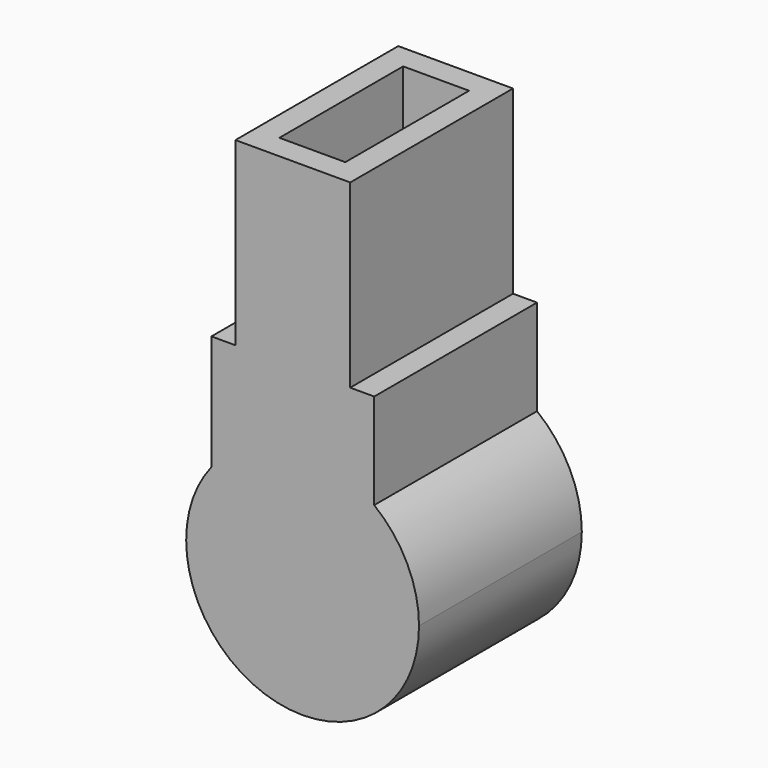
from build123d import *

# Parameters (mm, degrees)
F0_W     = 20
F0_H     = 20
F2_DEPTH = 25
F1_W     = 14.1000001311
F1_H     = 39.2423100663
F3_DEPTH = 25
F6_W     = 8.1000001311
F6_H     = 19
F7_DEPTH = 33.6010025272


with BuildPart() as f2:
    # F0 (on Front) → F2 (new body)
    with BuildSketch(Plane.XZ):
        with Locations((-1.2000007555, 1.4076924609)):
            Rectangle(F0_W, F0_H)
    extrude(amount=F2_DEPTH)

    # F1 (on Front) → F3 (join)
    with BuildSketch(Plane.XZ):
        with Locations((-1.2000008211, 13.9788474941)):
            Rectangle(F1_W, F1_H)
    extrude(amount=F3_DEPTH)

    # F5: sweep along a path in F5_path
    with BuildLine(Plane(origin=(-11.2000007555, 0, 11.4076924609), x_dir=(0, 1, 0), z_dir=(0, 0, 1))) as f5_path:
        Line((0, 0), (-25, 0))
    # F4 (on Front) → F5 (sweep)
    with BuildSketch(Plane.XZ):
        with BuildLine():
            ThreePointArc((0, -25.9104435142), (10.111753936, -21.7220178946), (14.3001795556, -11.6102639586))
            ThreePointArc((14.3001795556, -11.6102639586), (-10.111753936, -1.4985100226), (0, -25.9104435142))
        make_face()
    sweep(path=f5_path.line)

    # F6 (on Top) → F7 (cut, through all)
    with BuildSketch(Plane.XY):
        with Locations((-1.2000008211, -12.5)):
            Rectangle(F6_W, F6_H)
    extrude(amount=F7_DEPTH, mode=Mode.SUBTRACT)


solid = f2.part
